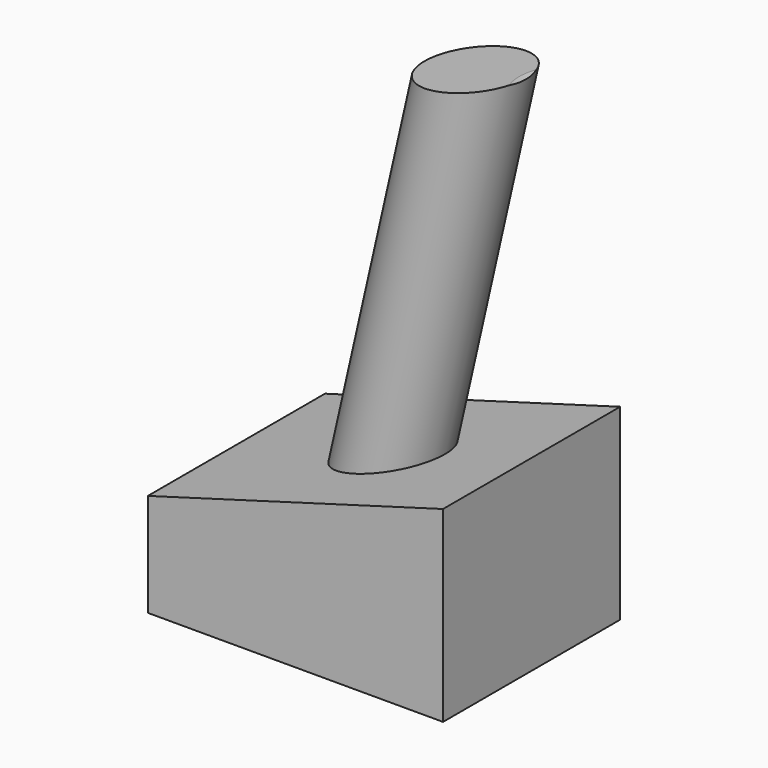
from build123d import *

# Parameters (mm, degrees)
F0_W     = 8
F0_H     = 6
F1_DEPTH = 5.08
F3_DEPTH = 25.4
F7_DEPTH = 12.7


with BuildPart() as f1:
    # F0 (on Top) → F1 (new body)
    with BuildSketch(Plane.XY):
        Rectangle(F0_W, F0_H)
    extrude(amount=F1_DEPTH)

    # F2 (on face) → F3 (cut)
    with BuildSketch(Plane.XZ.offset(3)):
        Polygon((-4, 2.7906689793), (4, 5.08), (-4, 5.08), align=None)
    extrude(amount=-F3_DEPTH, mode=Mode.SUBTRACT)

    # F4 (on Front) → F5 (revolve)
    with BuildSketch(Plane.XZ):
        Polygon((2.5232785847, 14.0600437298), (0, 2.9419534787), (1.2592966668, 2.6605941821), (3.8464304525, 14.0600437298), align=None)
    revolve(axis=Axis((1.2616392924, 0, 8.5009986043), (0.221324163, 0, 0.9752002947)))

    # F6 (on Front) → F7 (cut, symmetric)
    with BuildSketch(Plane.XZ):
        Polygon((2.4923852179, 17.2210689634), (-1.6191779869, 13.1095070392), (7.5650927611, 14.7648118436), align=None)
    extrude(amount=F7_DEPTH, both=True, mode=Mode.SUBTRACT)


solid = f1.part
